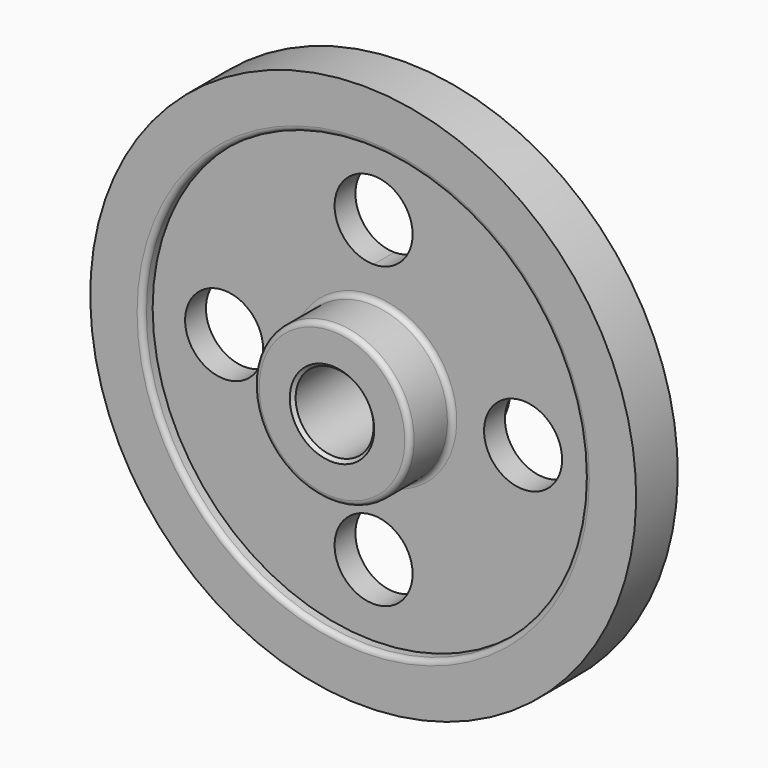
from build123d import *

# Parameters (mm, degrees)
F2_R     = 19.05
F3_DEPTH = 25.4
F4_R     = 2.54
F5_SIZE  = 1.5875


with BuildPart() as f1:
    # F0 (on Right) → F1 (revolve)
    with BuildSketch(Plane.YZ):
        Polygon((0, 133.35), (0, 19.05), (31.75, 19.05), (31.75, 38.1), (6.35, 38.1), (6.35, 107.95), (12.7, 107.95), (12.7, 133.35), align=None)
        Polygon((-31.75, 19.05), (0, 19.05), (0, 133.35), (-12.7, 133.35), (-12.7, 107.95), (-6.35, 107.95), (-6.35, 38.1), (-31.75, 38.1), align=None)
    revolve(axis=Axis((0, 15.875, 0), (0, 1, 0)))

    # F2 (on face) → F3 (cut)
    with BuildSketch(Plane.XZ.offset(6.35)):
        with Locations((73.025, 0)):
            Circle(F2_R)
        with BuildLine():
            ThreePointArc((19.05, 73.025), (-13.470384, 86.495384), (0, 53.975))
            ThreePointArc((0, 53.975), (13.470384, 59.554616), (19.05, 73.025))
        make_face()
        with Locations((-73.025, 0)):
            Circle(F2_R)
        with Locations((0, -73.025)):
            Circle(F2_R)
    extrude(amount=-F3_DEPTH, mode=Mode.SUBTRACT)

    # F4
    f4_edges = [f1.edges().sort_by_distance(p)[0] for p in [
        (0, -12.7, -107.95),
        (0, 12.7, -107.95),
        (0, 6.35, -38.1),
        (0, -6.35, -38.1),
        (0, -31.75, -38.1),
        (0, 31.75, -38.1),
    ]]
    fillet(f4_edges, radius=F4_R)

    # F5
    f5_edges = [f1.edges().sort_by_distance(p)[0] for p in [
        (0, -31.75, -19.05),
        (0, 31.75, -19.05),
    ]]
    chamfer(f5_edges, length=F5_SIZE)


solid = f1.part
